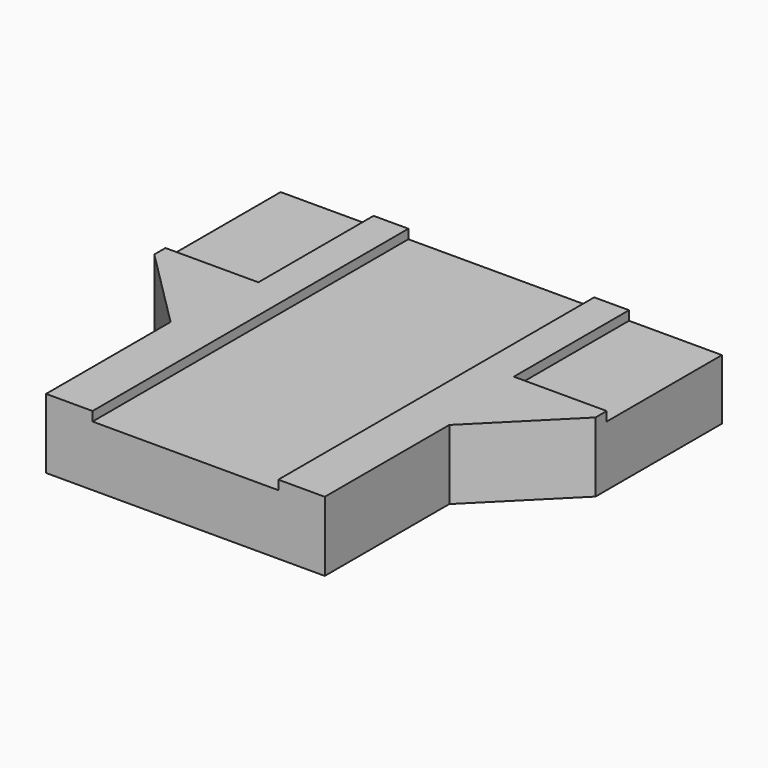
from build123d import *

# Parameters (mm, degrees)
SKETCH_W        = 950
SKETCH_H        = 850
PAD_DEPTH       = 150
SKETCH002_W     = 200
SKETCH002_H     = 310
POCKET_DEPTH    = 20
SKETCH003_W     = 400
SKETCH003_H     = 850
POCKET001_DEPTH = 20
POCKET002_DEPTH = 150.001


with BuildPart() as part:
    # Sketch → Pad (new body)
    with BuildSketch(Plane.XY):
        with Locations((475, 425)):
            Rectangle(SKETCH_W, SKETCH_H)
    extrude(amount=PAD_DEPTH)

    # Sketch002 (on Face6 of Pad) → Pocket (cut)
    with BuildSketch(Plane.XY.offset(150)):
        with Locations((100, 695)):
            Rectangle(SKETCH002_W, SKETCH002_H)
        with Locations((850, 695)):
            Rectangle(SKETCH002_W, SKETCH002_H)
    extrude(amount=-POCKET_DEPTH, mode=Mode.SUBTRACT)

    # Sketch003 (on Face5 of Pocket) → Pocket001 (cut)
    with BuildSketch(Plane.XY.offset(150)):
        with Locations((475, 425)):
            Rectangle(SKETCH003_W, SKETCH003_H)
    extrude(amount=-POCKET001_DEPTH, mode=Mode.SUBTRACT)

    # Sketch004 (on Face4 of Pocket001) → Pocket002 (cut, through all)
    with BuildSketch(Plane.XY.offset(150)):
        Polygon((0, 510), (175, 335), (175, 0), (0, 0), align=None)
        Polygon((950, 510), (775, 335), (775, 0), (950, 0), align=None)
    extrude(amount=-POCKET002_DEPTH, mode=Mode.SUBTRACT)


solid = part.part
